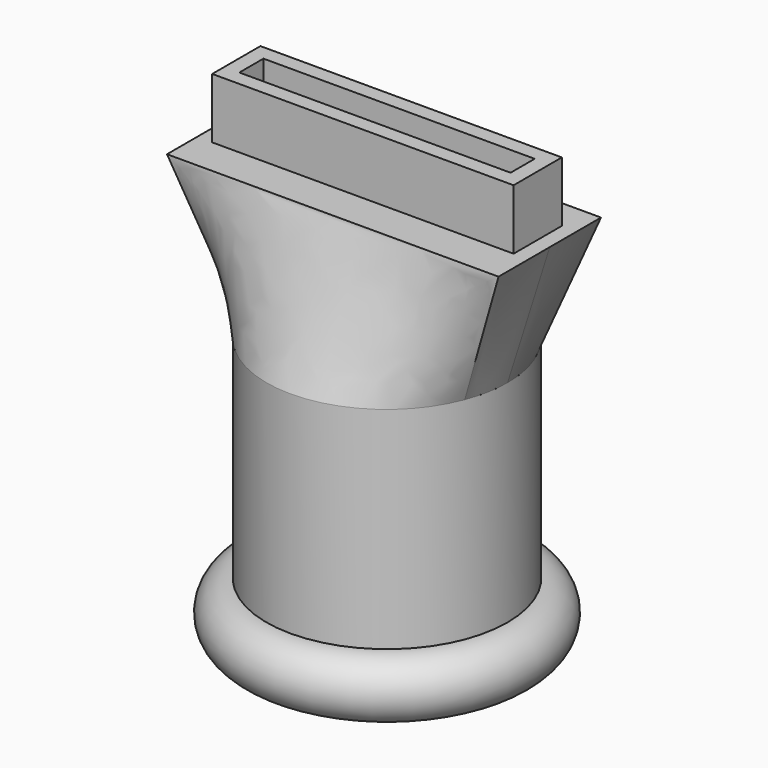
from build123d import *

# Parameters (mm, degrees)
SKETCH002_W       = 44
SKETCH002_H       = 17
SKETCH001_R       = 16
SKETCH005_W       = 40
SKETCH005_H       = 8
PAD_DEPTH         = 8
SKETCH006_W       = 36
SKETCH006_H       = 4
POCKET_DEPTH      = 8
TORUS_R           = 4
CYLINDER001_R     = 15
CYLINDER001_DEPTH = 32
CYLINDER_R        = 16
CYLINDER_DEPTH    = 32


with BuildPart() as body:
    # Sketch002 (on DatumPlane) → AdditiveLoft section 0
    with BuildSketch(Plane.XY.offset(50)):
        with Locations((0, -0.5)):
            Rectangle(SKETCH002_W, SKETCH002_H)
    # Sketch001 → AdditiveLoft section 1
    with BuildSketch(Plane.XY.offset(32)):
        Circle(SKETCH001_R)
    loft(ruled=True)

    # Sketch005 → Pad (new body)
    with BuildSketch(Plane.XY.offset(50)):
        Rectangle(SKETCH005_W, SKETCH005_H)
    extrude(amount=PAD_DEPTH)

    # Sketch006 → Pocket (cut)
    with BuildSketch(Plane.XY.offset(58)):
        Rectangle(SKETCH006_W, SKETCH006_H)
    extrude(amount=-POCKET_DEPTH, mode=Mode.SUBTRACT)


with BuildPart() as torus:
    # Torus → Torus (revolve)
    with BuildSketch(Plane.XZ):
        with Locations((16, 0)):
            Circle(TORUS_R)
    revolve(axis=Axis((0, 0, 0), (0, 0, 1)))


with BuildPart() as cylinder001:
    # Cylinder001 → Cylinder001 (new body)
    with BuildSketch(Plane.XY):
        Circle(CYLINDER001_R)
    extrude(amount=CYLINDER001_DEPTH)


with BuildPart() as cut:
    # Cylinder → Cylinder (new body)
    with BuildSketch(Plane.XY):
        Circle(CYLINDER_R)
    extrude(amount=CYLINDER_DEPTH)

    # Cut: cut Cylinder001
    add(cylinder001.part, mode=Mode.SUBTRACT)


solid = Compound([body.part, torus.part, cut.part])
